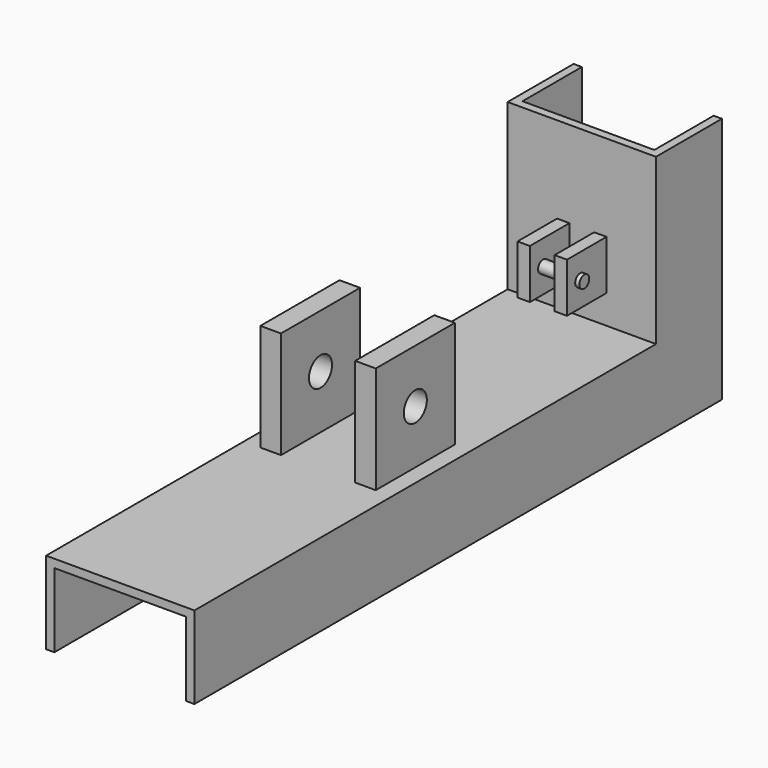
from build123d import *

# Parameters (mm, degrees)
F1_DEPTH      = 800
F3_DEPTH      = 200
F4_W          = 25
F4_H          = 120
F5_DEPTH      = 130
F6_W          = 15
F6_H          = 60
F7_DEPTH      = 60
F8_R          = 7.5
F9_DEPTH      = 65
F9_DEPTH_BACK = 5
F10_R         = 17.5
F11_DEPTH     = 160.001


with BuildPart() as f1:
    # F0 (on Front) → F1 (new body)
    with BuildSketch(Plane.XZ):
        Polygon((0, 100), (0, 0), (10, 0), (10, 90), (170, 90), (170, 0), (180, 0), (180, 100), align=None)
    extrude(amount=F1_DEPTH)

    # F2 (on face) → F3 (join)
    with BuildSketch(Plane.XY.offset(100)):
        Polygon((10, 0), (0, 0), (0, -100), (180, -100), (180, 0), (170, 0), (170, -90), (10, -90), align=None)
    extrude(amount=F3_DEPTH)

    # F4 (on face) → F5 (join)
    with BuildSketch(Plane.XY.offset(100)):
        with Locations((32.5, -440)):
            Rectangle(F4_W, F4_H)
        with Locations((147.5, -440)):
            Rectangle(F4_W, F4_H)
    extrude(amount=F5_DEPTH)

    # F6 (on face) → F7 (join)
    with BuildSketch(Plane.XZ.offset(100)):
        with Locations((67.5, 165)):
            Rectangle(F6_W, F6_H)
        with Locations((112.5, 165)):
            Rectangle(F6_W, F6_H)
    extrude(amount=F7_DEPTH)

    # F8 (on face) → F9 (join, two sides)
    with BuildSketch(Plane(origin=(60, 0, 0), x_dir=(0, -1, 0), z_dir=(-1, 0, 0))) as f9_sk:
        with Locations((140, 165)):
            Circle(F8_R)
    extrude(amount=-F9_DEPTH)
    extrude(f9_sk.sketch, amount=F9_DEPTH_BACK)

    # F10 (on face) → F11 (cut, through all)
    with BuildSketch(Plane(origin=(20, 0, 0), x_dir=(0, -1, 0), z_dir=(-1, 0, 0))):
        with Locations((440, 165)):
            Circle(F10_R)
    extrude(amount=-F11_DEPTH, mode=Mode.SUBTRACT)


solid = f1.part
